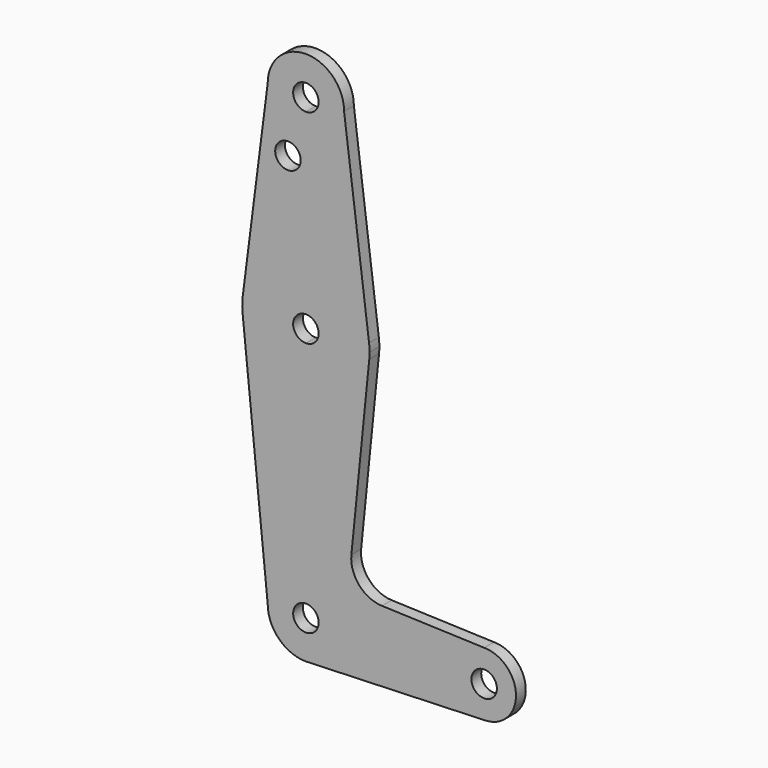
from build123d import *

# Parameters (mm, degrees)
F0_R     = 3.175
F1_DEPTH = 3.048


with BuildPart() as f1:
    # F0 (on Front) → F1 (new body)
    with BuildSketch(Plane.XZ):
        with BuildLine():
            ThreePointArc((0.6773435479, -9.500885786), (6.9705567315, -6.4912990883), (9.525, 0))
            Line((9.525, 0), (3.175, 0))
            ThreePointArc((3.175, 0), (-2.2450640303, -2.2450640303), (0, 3.175))
            Line((0, 3.175), (0, 9.525))
            ThreePointArc((0, 9.525), (-6.7351920908, 6.7351920908), (-9.525, 0))
            ThreePointArc((-9.525, 0), (-6.7351920908, -6.7351920908), (0, -9.525))
            Line((0, -9.525), (0.6773435479, -9.500885786))
        make_face()
        with BuildLine():
            ThreePointArc((0, 9.525), (6.7351920908, 6.7351920908), (9.525, 0))
            Line((9.525, 0), (36.5125, 0))
            ThreePointArc((36.5125, 0), (38.8373399243, 5.6126600757), (44.45, 7.9375))
            Line((44.45, 7.9375), (18.9672152943, 8.8475994538))
            ThreePointArc((18.9672152943, 8.8475994538), (13.2606937919, 11.5656631571), (11.3406209777, 17.5877540184))
            Line((11.3406209777, 17.5877540184), (15.7954255641, 61.9125))
            ThreePointArc((15.7954255641, 61.9125), (10.6492737428, 51.7267849017), (0, 47.625))
            Line((0, 47.625), (0, 9.525))
        make_face()
        with BuildLine():
            Line((36.5125, 0), (9.525, 0))
            ThreePointArc((9.525, 0), (6.9705567315, -6.4912990883), (0.6773435479, -9.500885786))
            Line((0.6773435479, -9.500885786), (44.7324052746, -7.9324746146))
            ThreePointArc((44.7324052746, -7.9324746146), (38.9380895153, -5.7116327839), (36.5125, 0))
        make_face()
        with BuildLine():
            ThreePointArc((44.45, 7.9375), (38.8373399243, 5.6126600757), (36.5125, 0))
            ThreePointArc((36.5125, 0), (38.9380895153, -5.7116327839), (44.7324052746, -7.9324746146))
            ThreePointArc((44.7324052746, -7.9324746146), (50.1616327839, -5.5119104847), (52.3875, 0))
            ThreePointArc((52.3875, 0), (50.0626600757, 5.6126600757), (44.45, 7.9375))
        make_face()
        with BuildLine():
            ThreePointArc((47.625, 0), (44.45, -3.175), (41.275, 0))
            ThreePointArc((41.275, 0), (44.45, 3.175), (47.625, 0))
        make_face(mode=Mode.SUBTRACT)
        with BuildLine():
            ThreePointArc((-9.525, 0), (-6.7351920908, 6.7351920908), (0, 9.525))
            Line((0, 9.525), (0, 47.625))
            ThreePointArc((0, 47.625), (-10.644756084, 51.722700101), (-15.7942028036, 61.9003804205))
            Line((-15.7942028036, 61.9003804205), (-9.525, 0))
        make_face()
        with BuildLine():
            ThreePointArc((0, -9.525), (0.3388863295, -9.5189695375), (0.6773435479, -9.500885786))
            Line((0.6773435479, -9.500885786), (0, -9.525))
        make_face()
        with BuildLine():
            ThreePointArc((-15.7942028036, 61.9003804205), (-10.644756084, 51.722700101), (0, 47.625))
            Line((0, 47.625), (0, 60.325))
            ThreePointArc((0, 60.325), (-3.175, 63.5), (0, 66.675))
            Line((0, 66.675), (0, 79.375))
            ThreePointArc((0, 79.375), (-10.4912828548, 75.4142187767), (-15.7474569047, 65.5082893304))
            ThreePointArc((-15.7474569047, 65.5082893304), (-15.873667691, 63.7056672947), (-15.7942028036, 61.9003804205))
        make_face()
        with BuildLine():
            Line((0, 60.325), (0, 47.625))
            ThreePointArc((0, 47.625), (10.6492737428, 51.7267849017), (15.7954255641, 61.9125))
            ThreePointArc((15.7954255641, 61.9125), (15.8550939106, 62.7052534459), (15.875, 63.5))
            ThreePointArc((15.875, 63.5), (15.8430821396, 64.5061676396), (15.7474569047, 65.5082893304))
            ThreePointArc((15.7474569047, 65.5082893304), (10.4912828548, 75.4142187767), (0, 79.375))
            Line((0, 79.375), (0, 66.675))
            ThreePointArc((0, 66.675), (2.2450640303, 65.7450640303), (3.175, 63.5))
            ThreePointArc((3.175, 63.5), (2.2450640303, 61.2549359697), (0, 60.325))
        make_face()
        with BuildLine():
            Line((-9.525, 114.3), (-15.7474569047, 65.5082893304))
            ThreePointArc((-15.7474569047, 65.5082893304), (-10.4912828548, 75.4142187767), (0, 79.375))
            Line((0, 79.375), (0, 104.775))
            ThreePointArc((0, 104.775), (-6.7351920908, 107.5648079092), (-9.525, 114.3))
        make_face()
        with Locations((-4.4756033458, 100.0252)):
            Circle(F0_R, mode=Mode.SUBTRACT)
        with BuildLine():
            Line((0, 104.775), (0, 79.375))
            ThreePointArc((0, 79.375), (10.4912828548, 75.4142187767), (15.7474569047, 65.5082893304))
            Line((15.7474569047, 65.5082893304), (9.525, 114.3))
            ThreePointArc((9.525, 114.3), (6.7351920908, 107.5648079092), (0, 104.775))
        make_face()
        with BuildLine():
            ThreePointArc((9.525, 114.3), (0, 123.825), (-9.525, 114.3))
            ThreePointArc((-9.525, 114.3), (-6.7351920908, 107.5648079092), (0, 104.775))
            ThreePointArc((0, 104.775), (6.7351920908, 107.5648079092), (9.525, 114.3))
        make_face()
        with BuildLine():
            ThreePointArc((3.175, 114.3), (2.2450640303, 112.0549359697), (0, 111.125))
            ThreePointArc((0, 111.125), (-2.2450640303, 116.5450640303), (3.175, 114.3))
        make_face(mode=Mode.SUBTRACT)
        with BuildLine():
            Line((3.175, 0), (9.525, 0))
            ThreePointArc((9.525, 0), (6.7351920908, 6.7351920908), (0, 9.525))
            Line((0, 9.525), (0, 3.175))
            ThreePointArc((0, 3.175), (2.2450640303, 2.2450640303), (3.175, 0))
        make_face()
    extrude(amount=F1_DEPTH)


solid = f1.part
